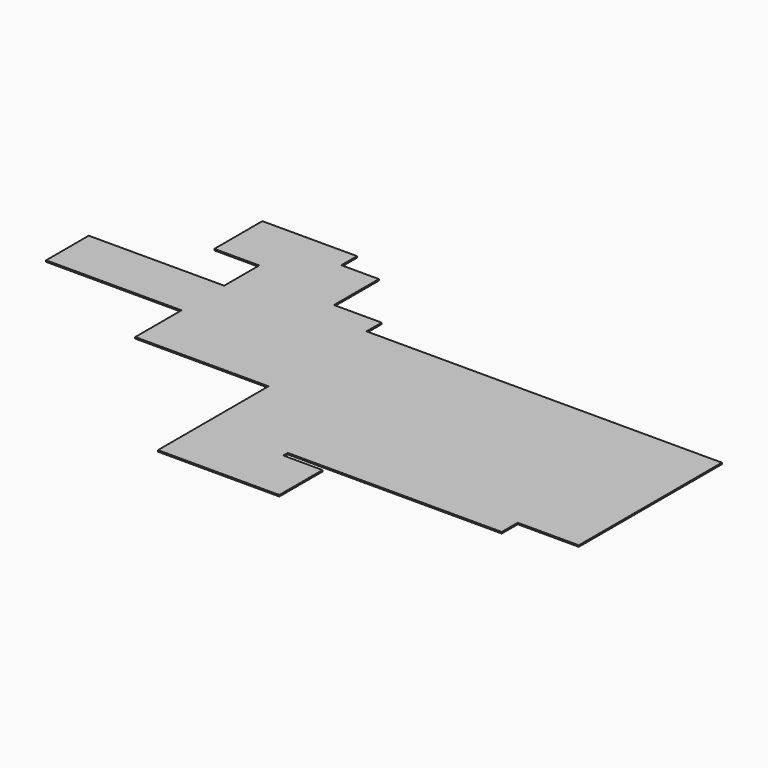
from build123d import *

# Parameters (mm, degrees)
F2_DEPTH = 25.4


with BuildPart() as f2:
    # F0 (on Top) → F2 (new body)
    with BuildSketch(Plane.XY):
        Polygon((6432.55, 0), (0, 0), (0, 342.9), (-863.6, 342.9), (-863.6, 999.924173), (-863.6, 1358.9), (-1543.05, 1358.9), (-1543.05, 1714.5), (-3257.55, 1714.5), (-3257.55, 628.65), (-2444.75, 628.65), (-2444.75, -165.1), (-4895.85, -165.1), (-4895.85, -1130.3), (-2444.75, -1130.3), (-2444.75, -2178.05), (-31.75, -2178.05), (-31.75, -4679.95), (2165.35, -4679.95), (2165.35, -3702.05), (1454.15, -3702.05), (1454.15, -3600.45), (5327.65, -3600.45), (5327.65, -3238.5), (6432.55, -3238.5), align=None)
    extrude(amount=F2_DEPTH)


solid = f2.part
